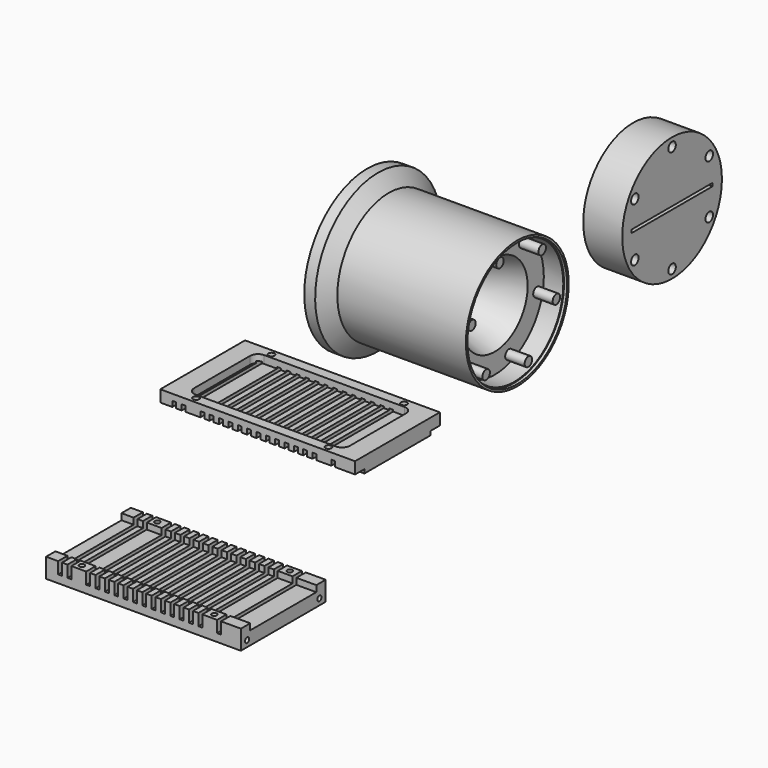
from build123d import *

# Parameters (mm, degrees)
F3_R      = 78.7982347689
F3_R_2    = 6
F4_DEPTH  = 25
F5_R      = 80
F5_R_2    = 6.05
F5_W      = 130
F5_H      = 4
F6_DEPTH  = 50
F8_DEPTH  = 250
F10_DEPTH = 10
F12_DEPTH = 10
F13_R     = 3.35
F14_DEPTH = 30
F15_R     = 3.35
F16_DEPTH = 10
F18_DEPTH = 25
F19_DEPTH = 8
F20_W     = 5
F20_H     = 106.7107629925
F20_H_2   = 15
F21_DEPTH = 338


with BuildPart() as f1:
    # F0 (on Front) → F1 (revolve)
    with BuildSketch(Plane.XZ):
        Polygon((-80.5456627617, 183.5), (-80.5456627617, 124), (-77.5456627617, 124), (-77.5456627617, 114.5), (-15.3827205087, 102.5), (108.119987607, 143.6666949862), (108.119987607, 162.5), (112.119987607, 162.5), (112.119987607, 165), (-37.880012393, 165), (-52.880012393, 165), (-66.5456627617, 183.5), align=None)
    revolve(axis=Axis((211.105402584, 0, 82.5), (1, 0, 0)))

    # F3 (on face) → F4 (cut)
    with BuildSketch(Plane.YZ.offset(108.119987607)):
        with Locations((0, 82.5)):
            Circle(F3_R)
        with Locations((-44.9503450867, 30.2164559676)):
            Circle(F3_R_2, mode=Mode.SUBTRACT)
        with Locations((22.8037047886, 17.4300872298)):
            Circle(F3_R_2, mode=Mode.SUBTRACT)
        with Locations((67.7540498753, 69.7136312622)):
            Circle(F3_R_2, mode=Mode.SUBTRACT)
        with Locations((-67.7540498753, 95.2863687378)):
            Circle(F3_R_2, mode=Mode.SUBTRACT)
        with Locations((-22.8037047886, 147.5699127702)):
            Circle(F3_R_2, mode=Mode.SUBTRACT)
        with Locations((44.9503450867, 134.7835440324)):
            Circle(F3_R_2, mode=Mode.SUBTRACT)
    extrude(amount=-F4_DEPTH, mode=Mode.SUBTRACT)

    # F9 (on face) → F19 (cut)
    with BuildSketch(Plane.XY.offset(136.1608621478)):
        with BuildLine():
            Line((35, -419.6777160168), (215, -419.6777160168))
            ThreePointArc((215, -419.6777160168), (222.0710678119, -416.7487838286), (225, -409.6777160168))
            Line((225, -409.6777160168), (225, -319.6777160168))
            ThreePointArc((225, -319.6777160168), (222.0710678119, -312.6066482049), (215, -309.6777160168))
            Line((215, -309.6777160168), (35, -309.6777160168))
            ThreePointArc((35, -309.6777160168), (27.9289321881, -312.6066482049), (25, -319.6777160168))
            Line((25, -319.6777160168), (25, -409.6777160168))
            ThreePointArc((25, -409.6777160168), (27.9289321881, -416.7487838286), (35, -419.6777160168))
        make_face()
    extrude(amount=-F19_DEPTH, mode=Mode.SUBTRACT)


with BuildPart() as f6:
    # F5 (on Right) → F6 (new body)
    with BuildSketch(Plane.YZ):
        with Locations((325.9349489212, 48.9302125275)):
            Circle(F5_R)
        with Locations((266.2224973303, 14.4552125275)):
            Circle(F5_R_2, mode=Mode.SUBTRACT)
        with Locations((325.9349489212, -20.0197874725)):
            Circle(F5_R_2, mode=Mode.SUBTRACT)
        with Locations((385.6474005121, 14.4552125275)):
            Circle(F5_R_2, mode=Mode.SUBTRACT)
        with Locations((266.2224973303, 83.4052125275)):
            Circle(F5_R_2, mode=Mode.SUBTRACT)
        with Locations((325.9349489212, 48.9302125275)):
            Rectangle(F5_W, F5_H, mode=Mode.SUBTRACT)
        with Locations((385.6474005121, 83.4052125275)):
            Circle(F5_R_2, mode=Mode.SUBTRACT)
        with Locations((325.9349489212, 117.8802125275)):
            Circle(F5_R_2, mode=Mode.SUBTRACT)
    extrude(amount=F6_DEPTH)


with BuildPart() as f8:
    # F7 (on Right) → F8 (new body)
    with BuildSketch(Plane.YZ):
        Polygon((-494.8764386177, 16.4500991553), (-494.8764386177, 13.4500991553), (-547.8764386177, 13.4500991553), (-547.8764386177, -3.5499008447), (-479.8764386177, -3.5499008447), (-479.8764386177, 16.4500991553), (-479.8764386177, 21.4500991553), (-484.8764386177, 21.4500991553), (-494.8764386177, 21.4500991553), align=None)
        Polygon((-547.8764386177, -3.5499008447), (-547.8764386177, 13.4500991553), (-600.8764386177, 13.4500991553), (-600.8764386177, 16.4500991553), (-600.8764386177, 21.4500991553), (-610.8764386177, 21.4500991553), (-615.8764386177, 21.4500991553), (-615.8764386177, 16.4500991553), (-615.8764386177, -3.5499008447), align=None)
    extrude(amount=F8_DEPTH)

    # F11 (on face) → F12 (cut)
    with BuildSketch(Plane(origin=(0, 0, -3.5499008447), x_dir=(1, 0, 0), z_dir=(0, 0, -1))):
        with BuildLine():
            Line((215, 602.8764386177), (35, 602.8764386177))
            ThreePointArc((35, 602.8764386177), (27.9289321881, 599.9475064296), (25, 592.8764386177))
            Line((25, 592.8764386177), (25, 502.8764386177))
            ThreePointArc((25, 502.8764386177), (27.9289321881, 495.8053708058), (35, 492.8764386177))
            Line((35, 492.8764386177), (215, 492.8764386177))
            ThreePointArc((215, 492.8764386177), (222.0710678119, 495.8053708058), (225, 502.8764386177))
            Line((225, 502.8764386177), (225, 592.8764386177))
            ThreePointArc((225, 592.8764386177), (222.0710678119, 599.9475064296), (215, 602.8764386177))
        make_face()
    extrude(amount=-F12_DEPTH, mode=Mode.SUBTRACT)

    # F13 (on face) → F14 (cut)
    with BuildSketch(Plane.YZ.offset(250)):
        with Locations((-605.8764386177, 4.4500991553)):
            Circle(F13_R)
        with Locations((-489.8764386177, 4.4500991553)):
            Circle(F13_R)
    extrude(amount=-F14_DEPTH, mode=Mode.SUBTRACT)

    # F15 (on face) → F16 (cut)
    with BuildSketch(Plane.XY.offset(21.4500991553)):
        with Locations((210, -487.3764386177)):
            Circle(F15_R)
        with Locations((40, -487.3764386177)):
            Circle(F15_R)
        with Locations((40, -608.3764386177)):
            Circle(F15_R)
        with Locations((210, -608.3764386177)):
            Circle(F15_R)
    extrude(amount=-F16_DEPTH, mode=Mode.SUBTRACT)


with BuildPart() as f8b:
    # F7 (on Right) → F8, piece 2 (new body)
    with BuildSketch(Plane.YZ):
        Polygon((-364.6777160168, 116.1608621478), (-311.6777160168, 116.1608621478), (-311.6777160168, 121.1608621478), (-301.6777160168, 121.1608621478), (-296.6777160168, 121.1608621478), (-296.6777160168, 136.1608621478), (-364.6777160168, 136.1608621478), align=None)
        Polygon((-417.6777160168, 116.1608621478), (-364.6777160168, 116.1608621478), (-364.6777160168, 136.1608621478), (-432.6777160168, 136.1608621478), (-432.6777160168, 121.1608621478), (-427.6777160168, 121.1608621478), (-417.6777160168, 121.1608621478), align=None)
    extrude(amount=F8_DEPTH)

    # F9 (on face) → F10 (cut)
    with BuildSketch(Plane.XY.offset(136.1608621478)):
        with BuildLine():
            Line((35, -419.6777160168), (215, -419.6777160168))
            ThreePointArc((215, -419.6777160168), (222.0710678119, -416.7487838286), (225, -409.6777160168))
            Line((225, -409.6777160168), (225, -319.6777160168))
            ThreePointArc((225, -319.6777160168), (222.0710678119, -312.6066482049), (215, -309.6777160168))
            Line((215, -309.6777160168), (35, -309.6777160168))
            ThreePointArc((35, -309.6777160168), (27.9289321881, -312.6066482049), (25, -319.6777160168))
            Line((25, -319.6777160168), (25, -409.6777160168))
            ThreePointArc((25, -409.6777160168), (27.9289321881, -416.7487838286), (35, -419.6777160168))
        make_face()
    extrude(amount=-F10_DEPTH, mode=Mode.SUBTRACT)

    # F17 (on face) → F18 (cut)
    with BuildSketch(Plane.XY.offset(136.1608621478)):
        with BuildLine():
            Line((40, -425.1777160168), (40, -421.1777160168))
            ThreePointArc((40, -421.1777160168), (37.1715728753, -428.0061431415), (44, -425.1777160168))
            Line((44, -425.1777160168), (40, -425.1777160168))
        make_face()
        with BuildLine():
            ThreePointArc((44, -425.1777160168), (42.8284271247, -422.349288892), (40, -421.1777160168))
            Line((40, -421.1777160168), (40, -425.1777160168))
            Line((40, -425.1777160168), (44, -425.1777160168))
        make_face()
        with BuildLine():
            ThreePointArc((214, -425.1777160168), (212.8284271247, -422.349288892), (210, -421.1777160168))
            Line((210, -421.1777160168), (210, -425.1777160168))
            Line((210, -425.1777160168), (206, -425.1777160168))
            ThreePointArc((206, -425.1777160168), (210, -429.1777160168), (214, -425.1777160168))
        make_face()
        with BuildLine():
            Line((210, -425.1777160168), (210, -421.1777160168))
            ThreePointArc((210, -421.1777160168), (207.1715728753, -422.349288892), (206, -425.1777160168))
            Line((206, -425.1777160168), (210, -425.1777160168))
        make_face()
        with BuildLine():
            ThreePointArc((214, -304.1777160168), (210, -300.1777160168), (206, -304.1777160168))
            Line((206, -304.1777160168), (210, -304.1777160168))
            Line((210, -304.1777160168), (210, -308.1777160168))
            ThreePointArc((210, -308.1777160168), (212.8284271247, -307.0061431415), (214, -304.1777160168))
        make_face()
        with BuildLine():
            Line((210, -304.1777160168), (206, -304.1777160168))
            ThreePointArc((206, -304.1777160168), (207.1715728753, -307.0061431415), (210, -308.1777160168))
            Line((210, -308.1777160168), (210, -304.1777160168))
        make_face()
        with BuildLine():
            Line((40, -308.1777160168), (40, -304.1777160168))
            Line((40, -304.1777160168), (44, -304.1777160168))
            ThreePointArc((44, -304.1777160168), (37.1715728753, -301.349288892), (40, -308.1777160168))
        make_face()
        with BuildLine():
            Line((44, -304.1777160168), (40, -304.1777160168))
            Line((40, -304.1777160168), (40, -308.1777160168))
            ThreePointArc((40, -308.1777160168), (42.8284271247, -307.0061431415), (44, -304.1777160168))
        make_face()
    extrude(amount=-F18_DEPTH, mode=Mode.SUBTRACT)


with BuildPart() as f21_tool:
    # F20 (on face) → F21 (new body)
    with BuildSketch(Plane.XZ.offset(615.8764386177)):
        with Locations((18, 74.8054806516)):
            Rectangle(F20_W, F20_H)
        with Locations((30, 74.8054806516)):
            Rectangle(F20_W, F20_H)
        with Locations((54, 74.8054806516)):
            Rectangle(F20_W, F20_H)
        with Locations((66, 74.8054806516)):
            Rectangle(F20_W, F20_H)
        with Locations((78, 74.8054806516)):
            Rectangle(F20_W, F20_H)
        with Locations((90, 74.8054806516)):
            Rectangle(F20_W, F20_H)
        with Locations((102, 74.8054806516)):
            Rectangle(F20_W, F20_H)
        with Locations((114, 74.8054806516)):
            Rectangle(F20_W, F20_H)
        with Locations((126, 74.8054806516)):
            Rectangle(F20_W, F20_H)
        with Locations((138, 74.8054806516)):
            Rectangle(F20_W, F20_H)
        with Locations((150, 74.8054806516)):
            Rectangle(F20_W, F20_H)
        with Locations((162, 74.8054806516)):
            Rectangle(F20_W, F20_H)
        with Locations((174, 74.8054806516)):
            Rectangle(F20_W, F20_H)
        with Locations((186, 74.8054806516)):
            Rectangle(F20_W, F20_H)
        with Locations((198, 74.8054806516)):
            Rectangle(F20_W, F20_H)
        with Locations((222, 74.8054806516)):
            Rectangle(F20_W, F20_H)
        with Locations((222, 13.9500991553)):
            Rectangle(F20_W, F20_H_2)
        with Locations((198, 13.9500991553)):
            Rectangle(F20_W, F20_H_2)
        with Locations((186, 13.9500991553)):
            Rectangle(F20_W, F20_H_2)
        with Locations((174, 13.9500991553)):
            Rectangle(F20_W, F20_H_2)
        with Locations((162, 13.9500991553)):
            Rectangle(F20_W, F20_H_2)
        with Locations((150, 13.9500991553)):
            Rectangle(F20_W, F20_H_2)
        with Locations((138, 13.9500991553)):
            Rectangle(F20_W, F20_H_2)
        with Locations((126, 13.9500991553)):
            Rectangle(F20_W, F20_H_2)
        with Locations((114, 13.9500991553)):
            Rectangle(F20_W, F20_H_2)
        with Locations((102, 13.9500991553)):
            Rectangle(F20_W, F20_H_2)
        with Locations((90, 13.9500991553)):
            Rectangle(F20_W, F20_H_2)
        with Locations((78, 13.9500991553)):
            Rectangle(F20_W, F20_H_2)
        with Locations((66, 13.9500991553)):
            Rectangle(F20_W, F20_H_2)
        with Locations((54, 13.9500991553)):
            Rectangle(F20_W, F20_H_2)
        with Locations((30, 13.9500991553)):
            Rectangle(F20_W, F20_H_2)
        with Locations((18, 13.9500991553)):
            Rectangle(F20_W, F20_H_2)
    extrude(amount=-F21_DEPTH)


with BuildPart() as f8_1:
    add(f8.part)

    # F21: cut by f21_tool
    add(f21_tool.part, mode=Mode.SUBTRACT)


with BuildPart() as f8b_1:
    add(f8b.part)

    # F21: cut by f21_tool
    add(f21_tool.part, mode=Mode.SUBTRACT)


solid = Compound([f1.part, f6.part, f8_1.part, f8b_1.part])
